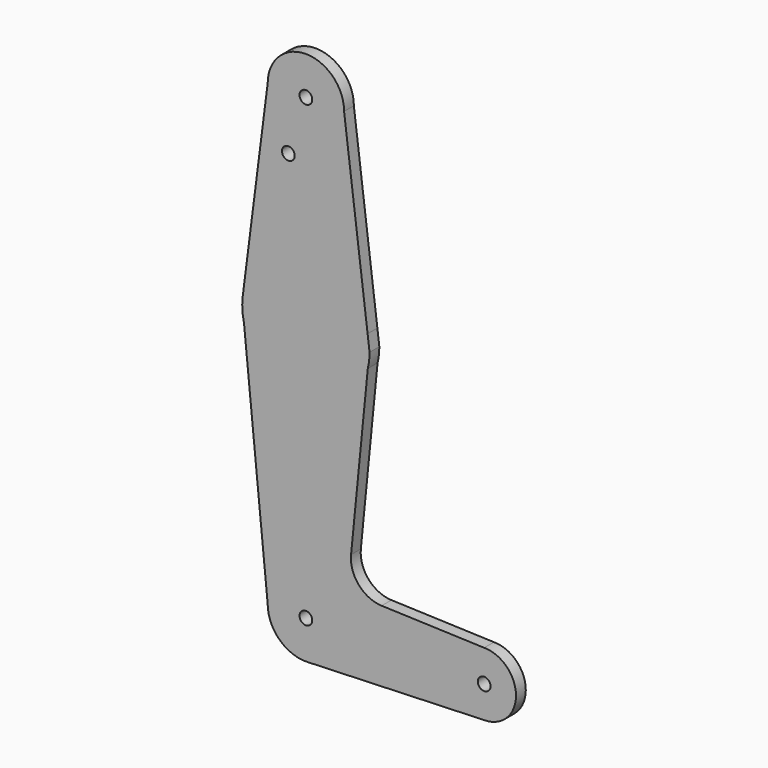
from build123d import *

# Parameters (mm, degrees)
F0_R     = 1.5875
F1_DEPTH = 3.048


with BuildPart() as f1:
    # F0 (on Front) → F1 (new body)
    with BuildSketch(Plane.XZ):
        with BuildLine():
            Line((-9.525, 50.8), (-15.747457, 2.008289))
            ThreePointArc((-15.747457, 2.008289), (-15.851677, -0.860203), (-15.437661, -3.700573))
            Line((-15.437661, -3.700573), (-9.525, -63.5))
            ThreePointArc((-9.525, -63.5), (-6.613434, -70.354788), (0.341271, -73.018884))
            Line((0.341271, -73.018884), (44.45, -71.4375))
            ThreePointArc((44.45, -71.4375), (52.3875, -63.5), (44.45, -55.5625))
            Line((44.45, -55.5625), (18.890116, -54.646128))
            ThreePointArc((18.890116, -54.646128), (13.188544, -51.932521), (11.263342, -45.918772))
            Line((11.263342, -45.918772), (15.437661, -3.700573))
            ThreePointArc((15.437661, -3.700573), (15.765286, -1.863163), (15.875, 0))
            Line((15.875, 0), (15.386538, 3.907692))
            Line((15.386538, 3.907692), (9.525, 50.8))
            ThreePointArc((9.525, 50.8), (0, 60.325), (-9.525, 50.8))
        make_face()
        with Locations((0, -63.5)):
            Circle(F0_R, mode=Mode.SUBTRACT)
        with Locations((44.45, -63.5)):
            Circle(F0_R, mode=Mode.SUBTRACT)
        with Locations((-4.372607, 37.063282)):
            Circle(F0_R, mode=Mode.SUBTRACT)
        with Locations((0, 50.8)):
            Circle(F0_R, mode=Mode.SUBTRACT)
    extrude(amount=F1_DEPTH)


solid = f1.part
